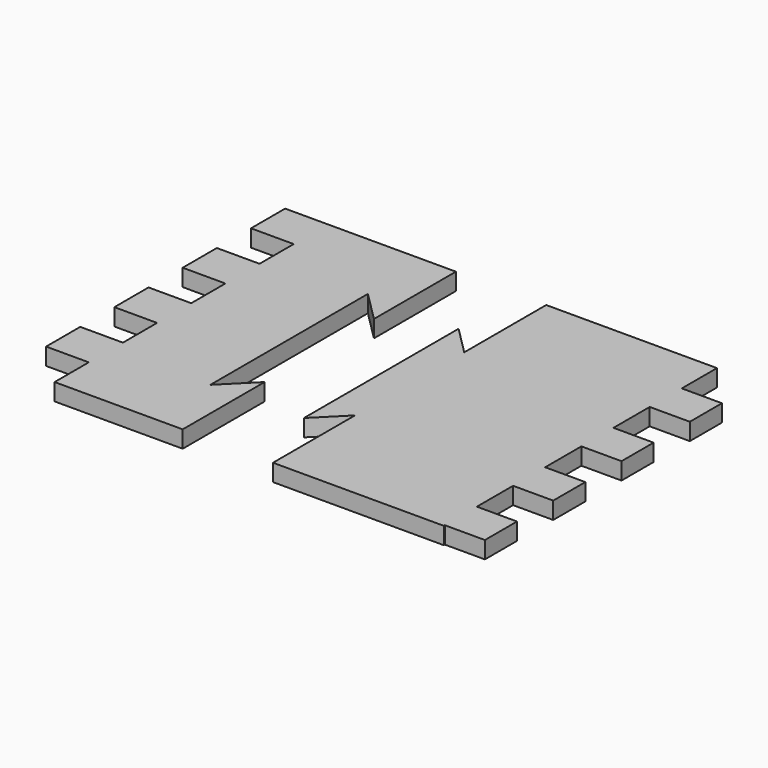
from build123d import *

# Parameters (mm, degrees)
F1_DEPTH = 2


with BuildPart() as f1:
    # F0 (on Top) → F1 (new body)
    with BuildSketch(Plane.XY):
        Polygon((30.576707, 20), (10.576707, 20), (10.576707, 8), (7.253306, 11.323402), (7.253306, -11.323402), (10.576707, -8), (10.576707, -20), (30.576707, -20), (30.576707, -19.85), (35.276707, -19.85), (35.276707, -15.15), (30.576707, -15.15), (30.576707, -9.85), (35.276707, -9.85), (35.276707, -5.15), (30.576707, -5.15), (30.576707, 0.15), (35.276707, 0.15), (35.276707, 4.85), (30.576707, 4.85), (30.576707, 10.15), (35.276707, 10.15), (35.276707, 14.85), (30.576707, 14.85), align=None)
        Polygon((30.576707, 20), (10.576707, 20), (10.576707, 8), (7.253306, 11.323402), (7.253306, -11.323402), (10.576707, -8), (10.576707, -20), (30.576707, -20), (30.576707, -19.85), (35.276707, -19.85), (35.276707, -15.15), (30.576707, -15.15), (30.576707, -9.85), (35.276707, -9.85), (35.276707, -5.15), (30.576707, -5.15), (30.576707, 0.15), (35.276707, 0.15), (35.276707, 4.85), (30.576707, 4.85), (30.576707, 10.15), (35.276707, 10.15), (35.276707, 14.85), (30.576707, 14.85), align=None)
        Polygon((0, 8), (0, 20), (-20, 20), (-20, 15), (-15, 15), (-15, 10), (-20, 10), (-20, 5), (-15, 5), (-15, 0), (-20, 0), (-20, -5), (-15, -5), (-15, -10), (-20, -10), (-20, -15), (-15, -15), (-15, -20), (0, -20), (0, -8), (-3.535534, -11.535534), (-3.535534, 11.535534), align=None)
    extrude(amount=F1_DEPTH)


solid = f1.part
